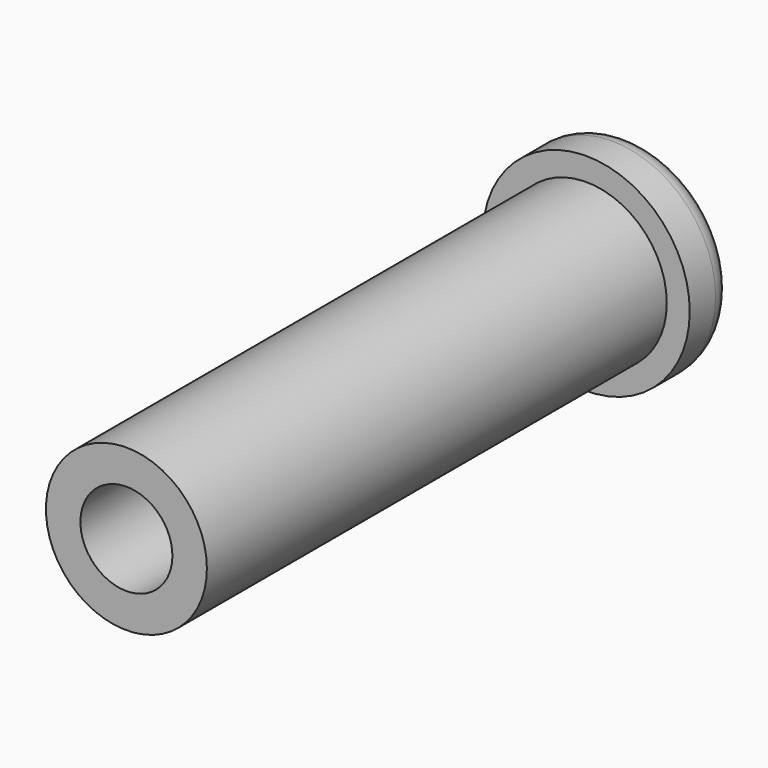
from build123d import *

# Parameters (mm, degrees)
F2_R = 1


with BuildPart() as f1:
    # F0 (on Top) → F1 (revolve)
    with BuildSketch(Plane.XY):
        Polygon((2, 27.4), (2, 0), (3.5, 0), (3.5, 25), (4.5, 25), (4.5, 27.4), align=None)
    revolve(axis=Axis((0, 13.997055, 0), (0, 1, 0)))

    # F2
    f2_edges = [f1.edges().sort_by_distance(p)[0] for p in [
        (-4.5, 27.4, 0),
        (-2, 27.4, 0),
    ]]
    fillet(f2_edges, radius=F2_R)


solid = f1.part
